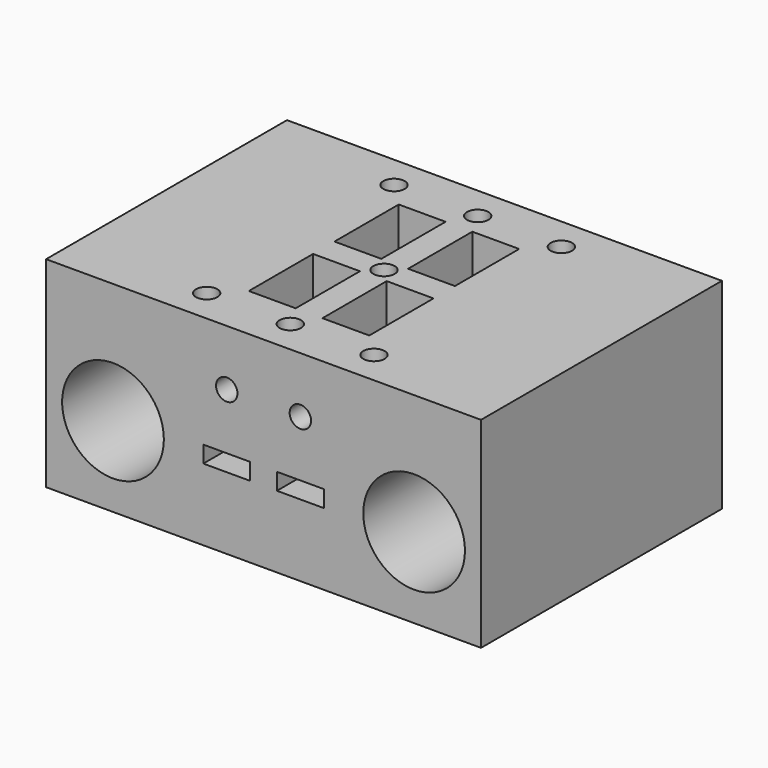
from build123d import *

# Parameters (mm, degrees)
SKETCH_W             = 65
SKETCH_H             = 30
SKETCH_R             = 7.6
PAD_DEPTH            = 22.5
SKETCH001_R          = 1.6
POCKET_DEPTH         = 12.001
POCKET_DEPTH_BACK    = -18.001
POCKET001_DEPTH      = 7
POCKET002_DEPTH      = 7
SKETCH004_R          = 5.1
POCKET003_DEPTH      = 8.5
SKETCH005_R          = 1.6
POCKET004_DEPTH      = 22.501
POCKET004_DEPTH_BACK = -22.501


with BuildPart() as part:
    # Sketch → Pad (new body, symmetric)
    with BuildSketch(Plane.XZ):
        with Locations((0, 3)):
            Rectangle(SKETCH_W, SKETCH_H)
        with Locations((-22.5, 0)):
            Circle(SKETCH_R, mode=Mode.SUBTRACT)
        with Locations((22.5, 0)):
            Circle(SKETCH_R, mode=Mode.SUBTRACT)
    extrude(amount=PAD_DEPTH, both=True)

    # Sketch001 → Pocket (cut, two sides)
    with BuildSketch(Plane.XY) as pocket_sk:
        with Locations((-12.5, 17.5)):
            Circle(SKETCH001_R)
        with Locations((12.5, 17.5)):
            Circle(SKETCH001_R)
        Circle(SKETCH001_R)
        with Locations((-12.5, -17.5)):
            Circle(SKETCH001_R)
        with Locations((12.5, -17.5)):
            Circle(SKETCH001_R)
        with Locations((0, 17.5)):
            Circle(SKETCH001_R)
        with Locations((0, -17.5)):
            Circle(SKETCH001_R)
    extrude(amount=-POCKET_DEPTH, mode=Mode.SUBTRACT)
    extrude(pocket_sk.sketch, amount=-POCKET_DEPTH_BACK, mode=Mode.SUBTRACT)

    # Sketch002 (on DatumPlane) → Pocket001 (cut)
    with BuildSketch(Plane.YZ.offset(2)):
        with BuildLine():
            ThreePointArc((-7, -1.25), (-3.464466, 0.214466), (-2, 3.75))
            Line((-2, 18), (-2, 3.75))
            Line((-14, 18), (-2, 18))
            Line((-14, 1.25), (-14, 18))
            Line((-22.5, 1.25), (-14, 1.25))
            Line((-22.5, -1.25), (-22.5, 1.25))
            Line((-7, -1.25), (-22.5, -1.25))
        make_face()
        with BuildLine():
            ThreePointArc((2, 3.75), (3.464466, 0.214466), (7, -1.25))
            Line((22.5, -1.25), (7, -1.25))
            Line((22.5, 1.25), (22.5, -1.25))
            Line((14, 1.25), (22.5, 1.25))
            Line((14, 18), (14, 1.25))
            Line((2, 18), (14, 18))
            Line((2, 3.75), (2, 18))
        make_face()
    extrude(amount=POCKET001_DEPTH, mode=Mode.SUBTRACT)

    # Sketch003 (on DatumPlane) → Pocket002 (cut)
    with BuildSketch(Plane.YZ.offset(-2)):
        with BuildLine():
            Line((-7, -1.25), (-22.5, -1.25))
            Line((-22.5, -1.25), (-22.5, 1.25))
            Line((-22.5, 1.25), (-14, 1.25))
            Line((-14, 1.25), (-14, 18))
            Line((-14, 18), (-2, 18))
            Line((-2, 18), (-2, 3.75))
            ThreePointArc((-7, -1.25), (-3.464466, 0.214466), (-2, 3.75))
        make_face()
        with BuildLine():
            Line((2, 3.75), (2, 18))
            Line((2, 18), (14, 18))
            Line((14, 18), (14, 1.25))
            Line((14, 1.25), (22.5, 1.25))
            Line((22.5, 1.25), (22.5, -1.25))
            Line((22.5, -1.25), (7, -1.25))
            ThreePointArc((2, 3.75), (3.464466, 0.214466), (7, -1.25))
        make_face()
    extrude(amount=-POCKET002_DEPTH, mode=Mode.SUBTRACT)

    # Sketch004 (on DatumPlane) → Pocket003 (cut)
    with BuildSketch(Plane.XY.offset(-11)):
        with Locations((-7.4, 0)):
            Circle(SKETCH004_R)
        with Locations((7.4, 0)):
            Circle(SKETCH004_R)
    extrude(amount=POCKET003_DEPTH, mode=Mode.SUBTRACT)

    # Sketch005 → Pocket004 (cut, two sides)
    with BuildSketch(Plane.XZ) as pocket004_sk:
        with Locations((-5.5, 9.625)):
            Circle(SKETCH005_R)
        with Locations((5.5, 9.625)):
            Circle(SKETCH005_R)
    extrude(amount=-POCKET004_DEPTH, mode=Mode.SUBTRACT)
    extrude(pocket004_sk.sketch, amount=-POCKET004_DEPTH_BACK, mode=Mode.SUBTRACT)


solid = part.part
